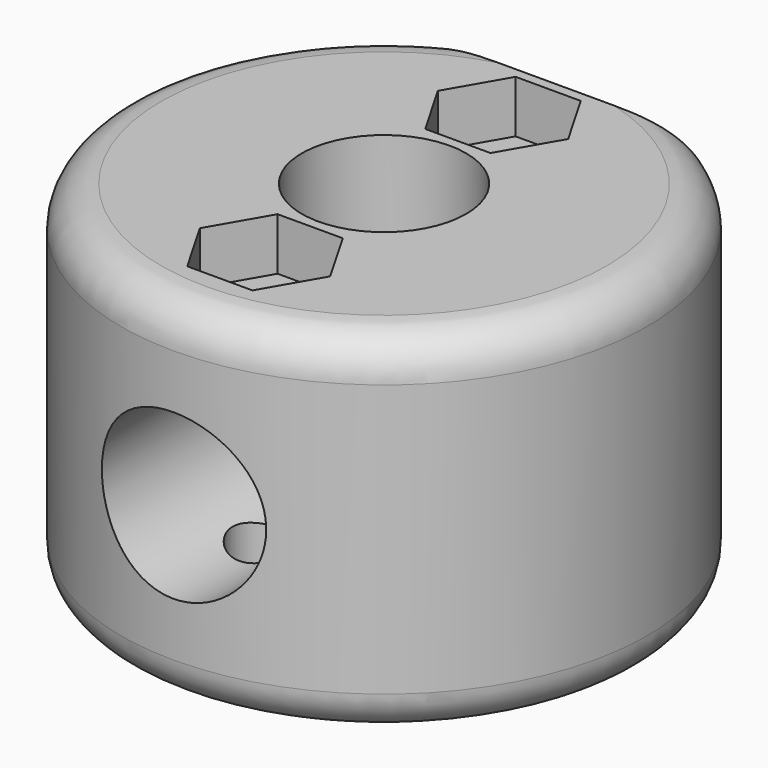
from build123d import *

# Parameters (mm, degrees)
SKETCH_R        = 1.6
SKETCH_R_2      = 4.075
PAD_DEPTH       = 17.5
SKETCH001_R     = 4.075
POCKET_DEPTH    = 23.730537
SKETCH002_R     = 2.85
POCKET001_DEPTH = 2
POCKET002_DEPTH = 2.6
FILLET_R        = 2


with BuildPart() as part:
    # Sketch → Pad (new body)
    with BuildSketch(Plane.XY):
        with BuildLine():
            ThreePointArc((-7.5, 10.679537), (0, -13.05), (7.5, 10.679537))
            Line((-7.5, 10.679537), (7.5, 10.679537))
        make_face()
        with Locations((0, 7.377268)):
            Circle(SKETCH_R, mode=Mode.SUBTRACT)
        with Locations((0, -7.377268)):
            Circle(SKETCH_R, mode=Mode.SUBTRACT)
        Circle(SKETCH_R_2, mode=Mode.SUBTRACT)
    extrude(amount=PAD_DEPTH)

    # Sketch001 (on Face2 of Pad) → Pocket (cut, through all)
    with BuildSketch(Plane(origin=(0, 10.679537, 0), x_dir=(-1, 0, 0), z_dir=(0, 1, 0))):
        with Locations((0, 8.75)):
            Circle(SKETCH001_R)
    extrude(amount=-POCKET_DEPTH, mode=Mode.SUBTRACT)

    # Sketch002 (on Face3 of Pocket) → Pocket001 (cut)
    with BuildSketch(Plane(origin=(0, 0, 0), x_dir=(1, 0, 0), z_dir=(0, 0, -1))):
        with Locations((0, 7.377268)):
            Circle(SKETCH002_R)
        with Locations((0, -7.377268)):
            Circle(SKETCH002_R)
    extrude(amount=-POCKET001_DEPTH, mode=Mode.SUBTRACT)

    # Sketch003 (on Face4 of Pocket001) → Pocket002 (cut)
    with BuildSketch(Plane.XY.offset(17.5)):
        Polygon((1.616581, 10.177268), (-1.616581, 10.177268), (-3.233162, 7.377268), (-1.616581, 4.577268), (1.616581, 4.577268), (3.233162, 7.377268), align=None)
        Polygon((3.233162, -7.377268), (1.616581, -4.577268), (-1.616581, -4.577268), (-3.233162, -7.377268), (-1.616581, -10.177268), (1.616581, -10.177268), align=None)
    extrude(amount=-POCKET002_DEPTH, mode=Mode.SUBTRACT)

    # Fillet
    fillet_edges = [part.edges().sort_by_distance(p)[0] for p in [
        (0, -13.05, 0),
        (0, -13.05, 17.5),
    ]]
    fillet(fillet_edges, radius=FILLET_R)


solid = part.part
